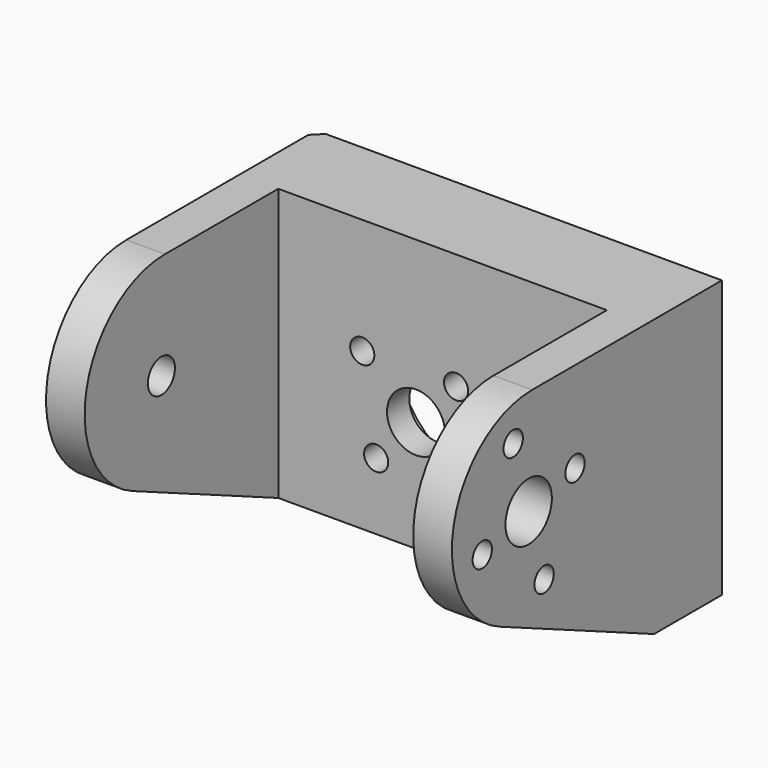
from build123d import *

# Parameters (mm, degrees)
CYLINDER067_R             = 1.75
CYLINDER067_DEPTH         = 22
CYLINDER067_PITCH_ANGLE   = 90
CYLINDER061_R             = 1.25
CYLINDER061_DEPTH         = 22
CYLINDER061_PITCH_ANGLE   = 90
CYLINDER062_R             = 1.25
CYLINDER062_DEPTH         = 22
CYLINDER062_PITCH_ANGLE   = 90
CYLINDER060_R             = 1.25
CYLINDER060_DEPTH         = 22
CYLINDER060_PITCH_ANGLE   = 90
CYLINDER059_R             = 1.25
CYLINDER059_DEPTH         = 22
CYLINDER059_PITCH_ANGLE   = 90
CYLINDER065_R             = 1.25
CYLINDER065_DEPTH         = 22
CYLINDER065_PITCH_ANGLE   = 90
CYLINDER066_R             = 1.25
CYLINDER066_DEPTH         = 22
CYLINDER066_PITCH_ANGLE   = 90
CYLINDER064_R             = 1.25
CYLINDER064_DEPTH         = 22
CYLINDER064_PITCH_ANGLE   = 90
CYLINDER063_R             = 1.25
CYLINDER063_DEPTH         = 22
CYLINDER063_PITCH_ANGLE   = 90
FUSION047_ROLL_ANGLE      = 34
FUSION047_PLACEMENT_ANGLE = -90
CYLINDER058_R             = 3
CYLINDER058_DEPTH         = 22
CYLINDER058_PITCH_ANGLE   = 90
CYLINDER057_R             = 3
CYLINDER057_DEPTH         = 13
CYLINDER057_ROLL_ANGLE    = 90
CYLINDER056_R             = 10
CYLINDER056_DEPTH         = 10
CYLINDER056_ROLL_ANGLE    = 90
PAD007_DEPTH              = 34
PAD005_DEPTH              = 42
CHAMFER104_SIZE           = 1


with BuildPart() as cilindro011:
    # Cylinder067 → Cylinder067 (new body)
    with BuildSketch(Plane.XY):
        Circle(CYLINDER067_R)
    extrude(amount=CYLINDER067_DEPTH)


with BuildPart() as cilindro011_1:
    # Cylinder067 pitch: moved
    add(cilindro011.part.rotate(Axis((0, 0, 0), (0, 1, 0)), CYLINDER067_PITCH_ANGLE))


with BuildPart() as cilindro011_2:
    # Cylinder067 placement: moved
    add(cilindro011_1.part.moved(Location((-4.75, -32, 125.75))))


with BuildPart() as cilindro005:
    # Cylinder061 → Cylinder061 (new body)
    with BuildSketch(Plane.XY):
        Circle(CYLINDER061_R)
    extrude(amount=CYLINDER061_DEPTH)


with BuildPart() as cilindro005_1:
    # Cylinder061 pitch: moved
    add(cilindro005.part.rotate(Axis((0, 0, 0), (0, 1, 0)), CYLINDER061_PITCH_ANGLE))


with BuildPart() as cilindro005_2:
    # Cylinder061 placement: moved
    add(cilindro005_1.part.moved(Location((20.25, -38, 124.25))))


with BuildPart() as cilindro006:
    # Cylinder062 → Cylinder062 (new body)
    with BuildSketch(Plane.XY):
        Circle(CYLINDER062_R)
    extrude(amount=CYLINDER062_DEPTH)


with BuildPart() as cilindro006_1:
    # Cylinder062 pitch: moved
    add(cilindro006.part.rotate(Axis((0, 0, 0), (0, 1, 0)), CYLINDER062_PITCH_ANGLE))


with BuildPart() as cilindro006_2:
    # Cylinder062 placement: moved
    add(cilindro006_1.part.moved(Location((20.25, -26, 127.25))))


with BuildPart() as cilindro004:
    # Cylinder060 → Cylinder060 (new body)
    with BuildSketch(Plane.XY):
        Circle(CYLINDER060_R)
    extrude(amount=CYLINDER060_DEPTH)


with BuildPart() as cilindro004_1:
    # Cylinder060 pitch: moved
    add(cilindro004.part.rotate(Axis((0, 0, 0), (0, 1, 0)), CYLINDER060_PITCH_ANGLE))


with BuildPart() as cilindro004_2:
    # Cylinder060 placement: moved
    add(cilindro004_1.part.moved(Location((20.25, -30, 118.75))))


with BuildPart() as fusion046:
    # Cylinder059 → Cylinder059 (new body)
    with BuildSketch(Plane.XY):
        Circle(CYLINDER059_R)
    extrude(amount=CYLINDER059_DEPTH)


with BuildPart() as fusion046_1:
    # Cylinder059 pitch: moved
    add(fusion046.part.rotate(Axis((0, 0, 0), (0, 1, 0)), CYLINDER059_PITCH_ANGLE))


with BuildPart() as fusion046_2:
    # Cylinder059 placement: moved
    add(fusion046_1.part.moved(Location((20.25, -34, 132.75))))

    # Fusion046: union Cilindro005, Cilindro006, Cilindro004
    add(cilindro005_2.part)
    add(cilindro006_2.part)
    add(cilindro004_2.part)


with BuildPart() as cilindro009:
    # Cylinder065 → Cylinder065 (new body)
    with BuildSketch(Plane.XY):
        Circle(CYLINDER065_R)
    extrude(amount=CYLINDER065_DEPTH)


with BuildPart() as cilindro009_1:
    # Cylinder065 pitch: moved
    add(cilindro009.part.rotate(Axis((0, 0, 0), (0, 1, 0)), CYLINDER065_PITCH_ANGLE))


with BuildPart() as cilindro009_2:
    # Cylinder065 placement: moved
    add(cilindro009_1.part.moved(Location((20.25, -38, 124.25))))


with BuildPart() as cilindro010:
    # Cylinder066 → Cylinder066 (new body)
    with BuildSketch(Plane.XY):
        Circle(CYLINDER066_R)
    extrude(amount=CYLINDER066_DEPTH)


with BuildPart() as cilindro010_1:
    # Cylinder066 pitch: moved
    add(cilindro010.part.rotate(Axis((0, 0, 0), (0, 1, 0)), CYLINDER066_PITCH_ANGLE))


with BuildPart() as cilindro010_2:
    # Cylinder066 placement: moved
    add(cilindro010_1.part.moved(Location((20.25, -26, 127.25))))


with BuildPart() as cilindro008:
    # Cylinder064 → Cylinder064 (new body)
    with BuildSketch(Plane.XY):
        Circle(CYLINDER064_R)
    extrude(amount=CYLINDER064_DEPTH)


with BuildPart() as cilindro008_1:
    # Cylinder064 pitch: moved
    add(cilindro008.part.rotate(Axis((0, 0, 0), (0, 1, 0)), CYLINDER064_PITCH_ANGLE))


with BuildPart() as cilindro008_2:
    # Cylinder064 placement: moved
    add(cilindro008_1.part.moved(Location((20.25, -30, 118.75))))


with BuildPart() as fusion047:
    # Cylinder063 → Cylinder063 (new body)
    with BuildSketch(Plane.XY):
        Circle(CYLINDER063_R)
    extrude(amount=CYLINDER063_DEPTH)


with BuildPart() as fusion047_1:
    # Cylinder063 pitch: moved
    add(fusion047.part.rotate(Axis((0, 0, 0), (0, 1, 0)), CYLINDER063_PITCH_ANGLE))


with BuildPart() as fusion047_2:
    # Cylinder063 placement: moved
    add(fusion047_1.part.moved(Location((20.25, -34, 132.75))))

    # Fusion047: union Cilindro009, Cilindro010, Cilindro008
    add(cilindro009_2.part)
    add(cilindro010_2.part)
    add(cilindro008_2.part)


with BuildPart() as fusion047_3:
    # Fusion047 roll: moved
    add(fusion047_2.part.rotate(Axis((0, 0, 0), (1, 0, 0)), FUSION047_ROLL_ANGLE))


with BuildPart() as fusion047_4:
    # Fusion047 placement: moved
    add(fusion047_3.part.moved(Location((114.107998, 21, 33.646227))).rotate(Axis((114.107998, 21, 33.646227), (0, 0, 1)), FUSION047_PLACEMENT_ANGLE))


with BuildPart() as cilindro002:
    # Cylinder058 → Cylinder058 (new body)
    with BuildSketch(Plane.XY):
        Circle(CYLINDER058_R)
    extrude(amount=CYLINDER058_DEPTH)


with BuildPart() as cilindro002_1:
    # Cylinder058 pitch: moved
    add(cilindro002.part.rotate(Axis((0, 0, 0), (0, 1, 0)), CYLINDER058_PITCH_ANGLE))


with BuildPart() as cilindro002_2:
    # Cylinder058 placement: moved
    add(cilindro002_1.part.moved(Location((20.25, -32, 125.75))))


with BuildPart() as cilindro001:
    # Cylinder057 → Cylinder057 (new body)
    with BuildSketch(Plane.XY):
        Circle(CYLINDER057_R)
    extrude(amount=CYLINDER057_DEPTH)


with BuildPart() as cilindro001_1:
    # Cylinder057 roll: moved
    add(cilindro001.part.rotate(Axis((0, 0, 0), (1, 0, 0)), CYLINDER057_ROLL_ANGLE))


with BuildPart() as cilindro001_2:
    # Cylinder057 placement: moved
    add(cilindro001_1.part.moved(Location((17.25, -6, 120))))


with BuildPart() as cilindro:
    # Cylinder056 → Cylinder056 (new body)
    with BuildSketch(Plane.XY):
        Circle(CYLINDER056_R)
    extrude(amount=CYLINDER056_DEPTH)


with BuildPart() as cilindro_1:
    # Cylinder056 roll: moved
    add(cilindro.part.rotate(Axis((0, 0, 0), (1, 0, 0)), CYLINDER056_ROLL_ANGLE))


with BuildPart() as cilindro_2:
    # Cylinder056 placement: moved
    add(cilindro_1.part.moved(Location((17.25, -4, 120))))


with BuildPart() as pad007:
    # Sketch012 → Pad007 (new body)
    with BuildSketch(Plane(origin=(3, -12, -1), x_dir=(0, 1, 0), z_dir=(1, 0, 0))):
        Polygon((-4.882067, 101.940956), (-4.882067, 138.559921), (-40.571098, 142.373672), (-40.571098, 120.688431), align=None)
    extrude(amount=PAD007_DEPTH)


with BuildPart() as obj1:
    # Sketch010 → Pad005 (new body)
    with BuildSketch(Plane.YZ.offset(-1)):
        with BuildLine():
            Line((-35.729516, 116.76657), (-15.773906, 107.988197))
            Line((-15.773906, 107.988197), (-7.000344, 107.988197))
            Line((-7.000344, 107.988197), (-7.000344, 136.642965))
            Line((-7.000344, 136.642965), (-31.550963, 136.642965))
            ThreePointArc((-31.550963, 136.642965), (-41.706398, 128.400491), (-35.729516, 116.76657))
        make_face()
    extrude(amount=PAD005_DEPTH)

    # Cut085: cut Pad007
    add(pad007.part, mode=Mode.SUBTRACT)

    # Cut086: cut Cilindro
    add(cilindro_2.part, mode=Mode.SUBTRACT)

    # Cut087: cut Cilindro001
    add(cilindro001_2.part, mode=Mode.SUBTRACT)

    # Chamfer104
    chamfer104_edges = [obj1.edges().sort_by_distance(p)[0] for p in [
        (-1, -7.000344, 122.315581),
    ]]
    chamfer(chamfer104_edges, length=CHAMFER104_SIZE)

    # Cut088: cut Cilindro002
    add(cilindro002_2.part, mode=Mode.SUBTRACT)

    # Cut089: cut Fusion047
    add(fusion047_4.part, mode=Mode.SUBTRACT)

    # Cut090: cut Fusion046
    add(fusion046_2.part, mode=Mode.SUBTRACT)

    # Cut091: cut Cilindro011
    add(cilindro011_2.part, mode=Mode.SUBTRACT)


solid = obj1.part
